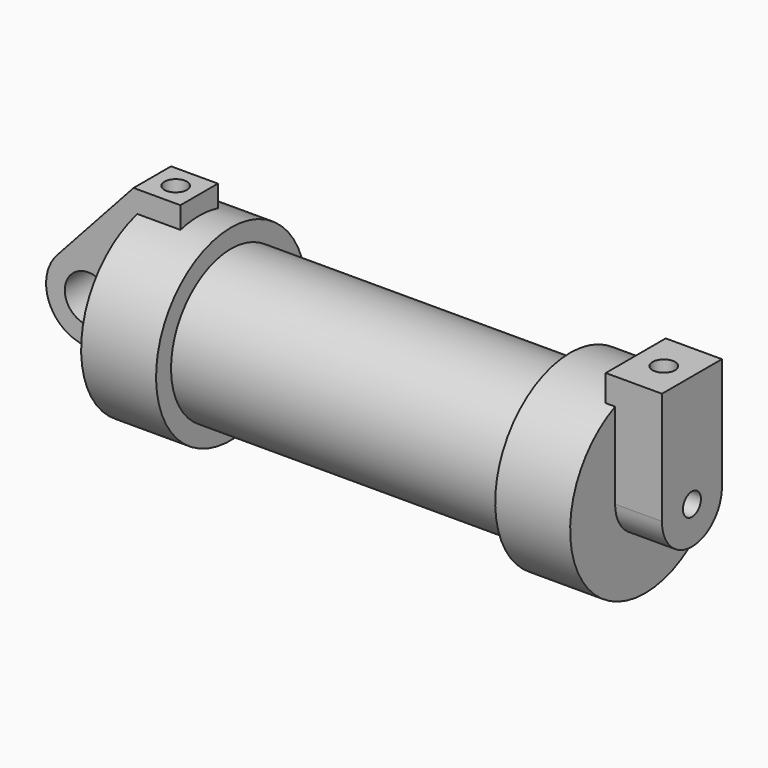
from build123d import *

# Parameters (mm, degrees)
F0_W      = 5.842
F0_H      = 12.7
F0_R      = 3.175
F2_DEPTH  = 3.175
F3_R      = 1.524
F4_DEPTH  = 6.35
F5_DEPTH  = 1.27
F6_DEPTH  = 6.35
F7_DEPTH  = 56.134
F8_R      = 1.524
F9_DEPTH  = 10.414
F10_R     = 1.524
F11_DEPTH = 17.78


with BuildPart() as f1:
    # F0 (on Front) → F1 (revolve)
    with BuildSketch(Plane.XZ):
        Polygon((5.842, 12.7), (5.842, 0), (66.294, 0), (66.294, 12.7), (56.134, 12.7), (56.134, 10.16), (10.16, 10.16), (10.16, 12.7), align=None)
        with Locations((2.921, 6.35)):
            Rectangle(F0_W, F0_H)
    revolve(axis=Axis((33.147, 0, 0), (-1, 0, 0)))

    # F0 (on Front) → F2 (join, symmetric)
    with BuildSketch(Plane.XZ):
        with Locations((2.921, 6.35)):
            Rectangle(F0_W, F0_H)
        with BuildLine():
            Line((-0.9398, 0), (0, 0))
            Line((0, 0), (0, 12.7))
            Line((0, 12.7), (5.842, 12.7))
            Line((5.842, 12.7), (5.842, 15.24))
            Line((5.842, 15.24), (-0.508, 15.24))
            Line((-0.508, 15.24), (-10.8806298187, 3.8475430269))
            ThreePointArc((-10.8806298187, 3.8475430269), (-4.5919612295, 5.3297205562), (-0.9398, 0))
        make_face()
        with BuildLine():
            Line((5.842, 0), (0, 0))
            Line((0, 0), (-0.9398, 0))
            ThreePointArc((-0.9398, 0), (-3.1957909266, -4.5493385486), (-8.1826630726, -5.5069827884))
            Line((-8.1826630726, -5.5069827884), (5.842, -9.398))
            Line((5.842, -9.398), (5.842, 0))
        make_face()
        with BuildLine():
            ThreePointArc((-8.1826630726, -5.5069827884), (-3.1957909266, -4.5493385486), (-0.9398, 0))
            ThreePointArc((-0.9398, 0), (-4.5919612295, 5.3297205562), (-10.8806298187, 3.8475430269))
            ThreePointArc((-10.8806298187, 3.8475430269), (-12.1459778134, -1.5837270034), (-8.1826630726, -5.5069827884))
        make_face()
        with Locations((-6.6548, 0)):
            Circle(F0_R, mode=Mode.SUBTRACT)
    extrude(amount=F2_DEPTH, both=True)

    # F3 (on face) → F4 (join)
    with BuildSketch(Plane.YZ.offset(66.294)):
        with BuildLine():
            ThreePointArc((-5.08, 0), (0, 5.08), (5.08, 0))
            Line((5.08, 0), (5.08, 11.6397422652))
            ThreePointArc((5.08, 11.6397422652), (0, 12.7), (-5.08, 11.6397422652))
            Line((-5.08, 11.6397422652), (-5.08, 0))
        make_face()
        with BuildLine():
            ThreePointArc((-5.08, 0), (0, -5.08), (5.08, 0))
            ThreePointArc((5.08, 0), (0, 5.08), (-5.08, 0))
        make_face()
        Circle(F3_R, mode=Mode.SUBTRACT)
        with BuildLine():
            ThreePointArc((-5.08, 11.6397422652), (0, 12.7), (5.08, 11.6397422652))
            Line((5.08, 11.6397422652), (5.08, 15.24))
            Line((5.08, 15.24), (3.175, 15.24))
            Line((3.175, 15.24), (-3.175, 15.24))
            Line((-3.175, 15.24), (-5.08, 15.24))
            Line((-5.08, 15.24), (-5.08, 11.6397422652))
        make_face()
        Circle(F3_R)
    extrude(amount=F4_DEPTH)

    # F3 (on face) → F5 (join)
    with BuildSketch(Plane.YZ.offset(66.294)):
        with BuildLine():
            ThreePointArc((-5.08, 0), (0, -5.08), (5.08, 0))
            ThreePointArc((5.08, 0), (0, 5.08), (-5.08, 0))
        make_face()
        Circle(F3_R, mode=Mode.SUBTRACT)
        with BuildLine():
            ThreePointArc((-5.08, 0), (0, 5.08), (5.08, 0))
            Line((5.08, 0), (5.08, 15.24))
            Line((5.08, 15.24), (3.175, 15.24))
            Line((3.175, 15.24), (-3.175, 15.24))
            Line((-3.175, 15.24), (-5.08, 15.24))
            Line((-5.08, 15.24), (-5.08, 0))
        make_face()
    extrude(amount=-F5_DEPTH)

    # F3 (on face) → F6 (cut)
    with BuildSketch(Plane.YZ.offset(66.294)):
        Circle(F3_R)
    extrude(amount=F6_DEPTH, mode=Mode.SUBTRACT)

    # F3 (on face) → F7 (cut, through all)
    with BuildSketch(Plane.YZ.offset(66.294)):
        Circle(F3_R)
    extrude(amount=-F7_DEPTH, mode=Mode.SUBTRACT)

    # F8 (on face) → F9 (cut)
    with BuildSketch(Plane.XY.offset(15.24)):
        with Locations((68.834, 0)):
            Circle(F8_R)
    extrude(amount=-F9_DEPTH, mode=Mode.SUBTRACT)

    # F10 (on face) → F11 (cut)
    with BuildSketch(Plane.XY.offset(15.24)):
        with Locations((2.667, 0)):
            Circle(F10_R)
    extrude(amount=-F11_DEPTH, mode=Mode.SUBTRACT)


solid = f1.part
